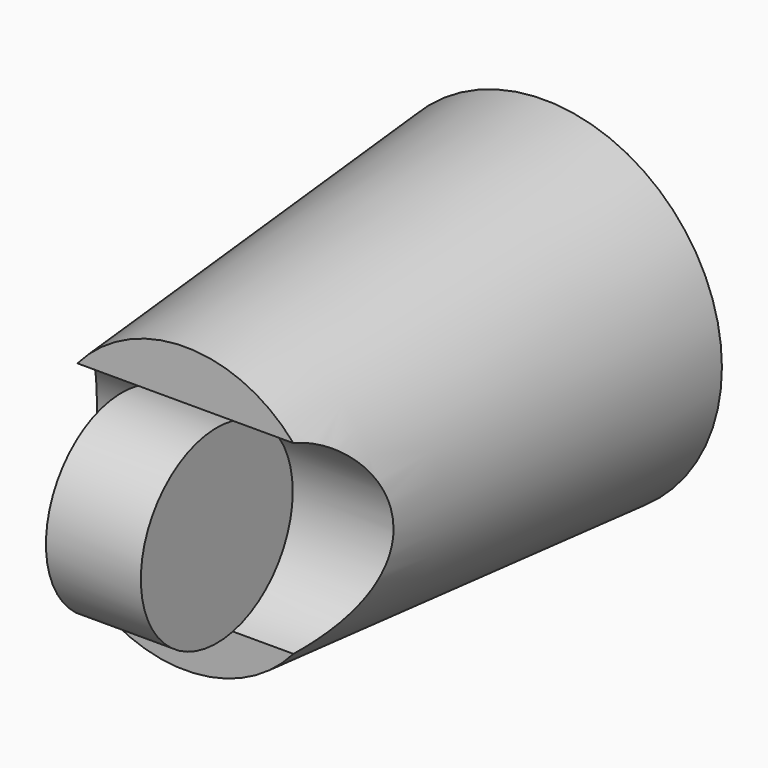
from build123d import *

# Parameters (mm, degrees)
F2_R     = 5.08
F3_DEPTH = 25.4
F4_DEPTH = 2.54


with BuildPart() as f1:
    # F0 (on Top) → F1 (revolve)
    with BuildSketch(Plane.XY):
        with BuildLine():
            ThreePointArc((6.34011, 10.678397), (6.347527, 10.501329), (6.35, 10.324123))
            ThreePointArc((6.35, 10.324123), (4.490128, 5.833995), (0, 3.974123))
            Line((0, 3.974123), (0, -13.321603))
            Line((0, -13.321603), (7.62, -13.321603))
            Line((7.62, -13.321603), (9.51511, 10.678397))
            Line((9.51511, 10.678397), (6.34011, 10.678397))
        make_face()
    revolve(axis=Axis((0, -4.67374, 0), (0, 1, 0)))

    # F2 (on Right) → F3 (cut, symmetric)
    with BuildSketch(Plane.YZ):
        with Locations((-14.397663, 0)):
            Circle(F2_R)
    extrude(amount=F3_DEPTH, both=True, mode=Mode.SUBTRACT)

    # F2 (on Right) → F4 (join, symmetric)
    with BuildSketch(Plane.YZ):
        with Locations((-14.397663, 0)):
            Circle(F2_R)
    extrude(amount=F4_DEPTH, both=True)


solid = f1.part
